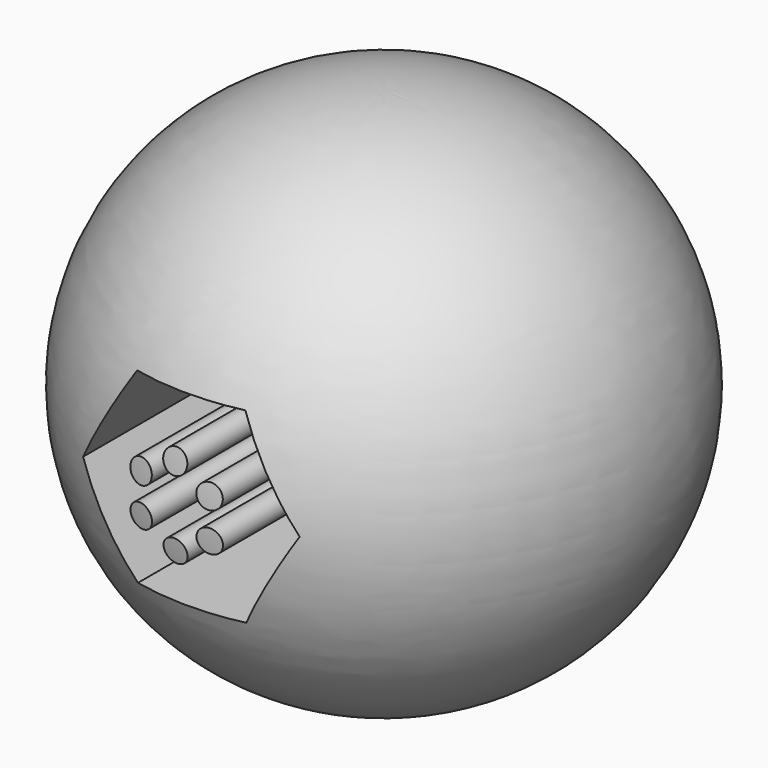
from build123d import *

# Parameters (mm, degrees)
F2_R     = 2.647723
F3_DEPTH = 66.294


with BuildPart() as f1:
    # F0 (on Front) → F1 (revolve)
    with BuildSketch(Plane.XZ):
        with BuildLine():
            Line((0, 57.448262), (0, -56.828318))
            ThreePointArc((0, -56.828318), (58.306856, 0.309972), (0, 57.448262))
        make_face()
    revolve(axis=Axis((0, 0, 0.309972), (0, 0, -1)))

    # F2 (on Front) → F3 (cut)
    with BuildSketch(Plane.XZ):
        Polygon((11.958799, 20.713247), (-11.958799, 20.713247), (-23.917598, 0), (-11.958799, -20.713247), (11.958799, -20.713247), (23.917598, 0), align=None)
        with Locations((-7.562183, -4.366028)):
            Circle(F2_R, mode=Mode.SUBTRACT)
        with Locations((0, -8.732056)):
            Circle(F2_R, mode=Mode.SUBTRACT)
        with Locations((7.562183, -4.366028)):
            Circle(F2_R, mode=Mode.SUBTRACT)
        with Locations((-7.562183, 4.366028)):
            Circle(F2_R, mode=Mode.SUBTRACT)
        with Locations((7.562183, 4.366028)):
            Circle(F2_R, mode=Mode.SUBTRACT)
        with Locations((0, 8.732056)):
            Circle(F2_R, mode=Mode.SUBTRACT)
    extrude(amount=F3_DEPTH, mode=Mode.SUBTRACT)


solid = f1.part
